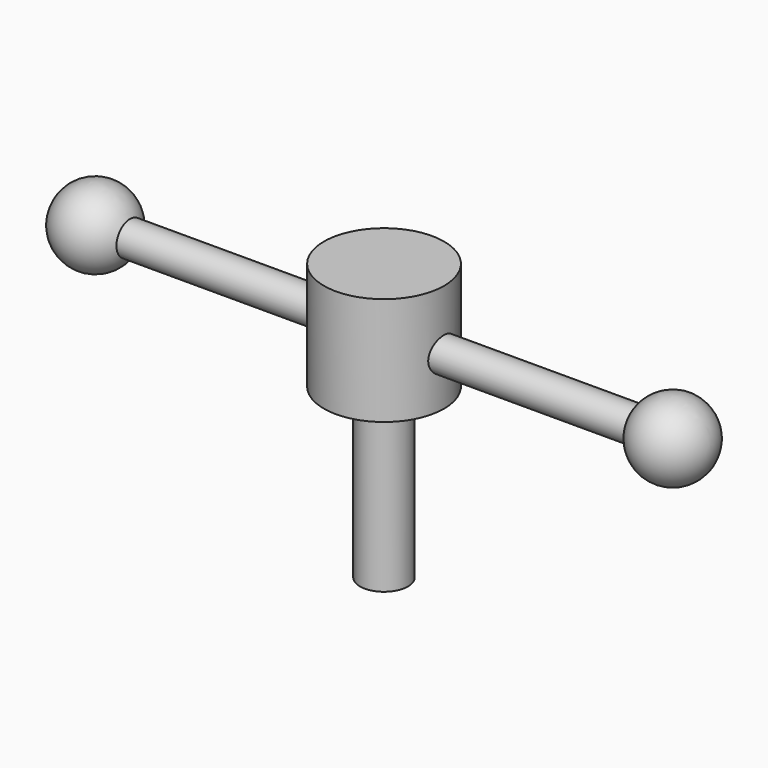
from build123d import *

# Parameters (mm, degrees)
F0_R     = 15.875
F1_DEPTH = 28.575
F2_R     = 6.35
F3_DEPTH = 44.45
F4_R     = 4.445
F5_DEPTH = 76.2


with BuildPart() as f1:
    # F0 (on Top) → F1 (new body)
    with BuildSketch(Plane.XY):
        Circle(F0_R)
    extrude(amount=F1_DEPTH)

    # F2 (on face) → F3 (join)
    with BuildSketch(Plane(origin=(0, 0, 0), x_dir=(1, 0, 0), z_dir=(0, 0, -1))):
        Circle(F2_R)
    extrude(amount=F3_DEPTH)

    # F4 (on Right) → F5 (join, symmetric)
    with BuildSketch(Plane.YZ):
        with Locations((0, 12.7)):
            Circle(F4_R)
    extrude(amount=F5_DEPTH, both=True)

    # F6 (on Front) → F7 (revolve)
    with BuildSketch(Plane.XZ):
        with BuildLine():
            Line((-86.433909, 12.7), (-66.113909, 12.7))
            ThreePointArc((-66.113909, 12.7), (-76.273909, 22.86), (-86.433909, 12.7))
        make_face()
        with BuildLine():
            ThreePointArc((86.433909, 12.7), (76.273909, 22.86), (66.113909, 12.7))
            Line((66.113909, 12.7), (86.433909, 12.7))
        make_face()
    revolve(axis=Axis((-66.812286, 0, 12.7), (1, 0, 0)))


solid = f1.part
